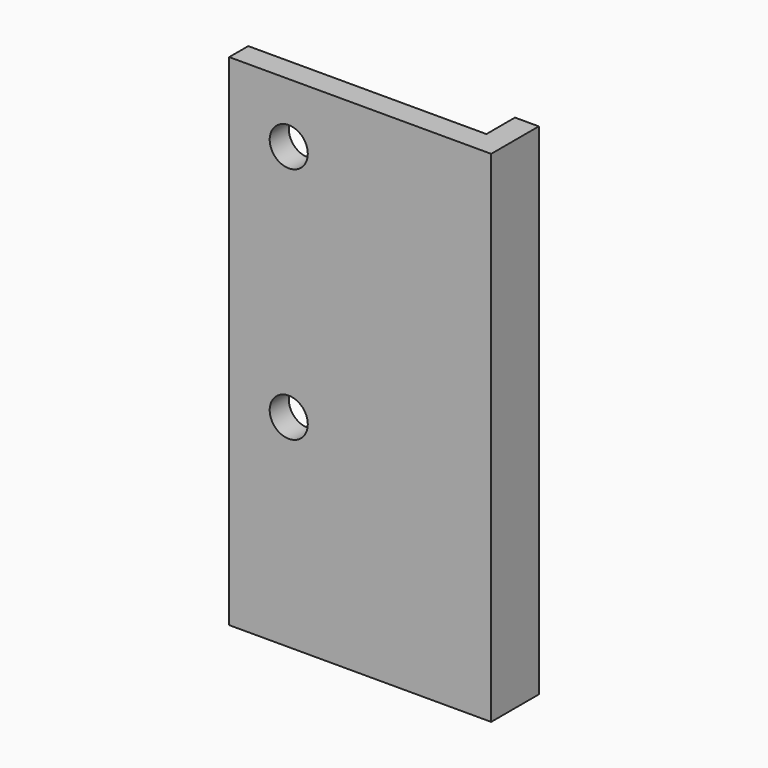
from build123d import *

# Parameters (mm, degrees)
CYLINDER025_R     = 1.6
CYLINDER025_DEPTH = 10
CYLINDER026_R     = 1.6
CYLINDER026_DEPTH = 10
BOX026_W          = 22
BOX026_H          = 5
BOX026_DEPTH      = 42
BOX025_W          = 22
BOX025_H          = 5
BOX025_DEPTH      = 42


with BuildPart() as cylinder025:
    # Cylinder025 → Cylinder025 (new body)
    with BuildSketch(Plane(origin=(5, 0, 10), x_dir=(1, 0, 0), z_dir=(0, -1, 0))):
        Circle(CYLINDER025_R)
    extrude(amount=CYLINDER025_DEPTH)


with BuildPart() as fusion007006:
    # Cylinder026 → Cylinder026 (new body)
    with BuildSketch(Plane(origin=(5, 0, 30), x_dir=(1, 0, 0), z_dir=(0, -1, 0))):
        Circle(CYLINDER026_R)
    extrude(amount=CYLINDER026_DEPTH)

    # Fusion007006: union Cylinder025
    add(cylinder025.part)


with BuildPart() as fusion007006_1:
    # Fusion007006 placement: moved
    add(fusion007006.part.moved(Location((0, 0, 5))))


with BuildPart() as cube015:
    # Box026 → Box026 (new body)
    with BuildSketch(Plane(origin=(-2, -3, 0), x_dir=(1, 0, 0), z_dir=(0, 0, 1))):
        with Locations((11, 2.5)):
            Rectangle(BOX026_W, BOX026_H)
    extrude(amount=BOX026_DEPTH)


with BuildPart() as cut003013:
    # Box025 → Box025 (new body)
    with BuildSketch(Plane(origin=(0, -5, -2), x_dir=(1, 0, 0), z_dir=(0, 0, 1))):
        with Locations((11, 2.5)):
            Rectangle(BOX025_W, BOX025_H)
    extrude(amount=BOX025_DEPTH)

    # Cut003012: cut Cube015
    add(cube015.part, mode=Mode.SUBTRACT)

    # Cut003013: cut Fusion007006
    add(fusion007006_1.part, mode=Mode.SUBTRACT)


solid = cut003013.part
